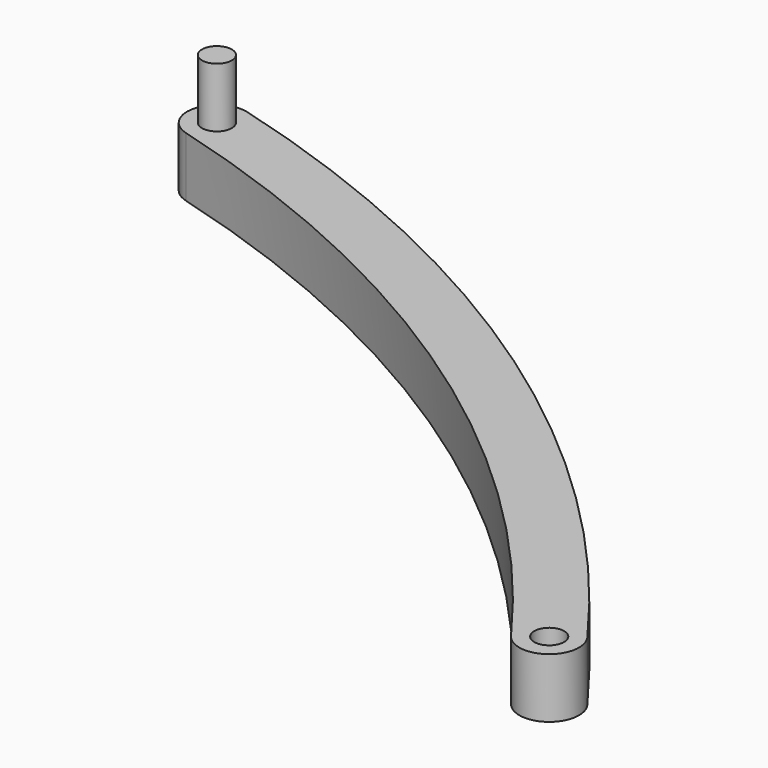
from build123d import *

# Parameters (mm, degrees)
F0_R     = 0.5
F1_DEPTH = 2
F2_R     = 0.5
F3_DEPTH = 2


with BuildPart() as f1:
    # F0 (on Top) → F1 (new body)
    with BuildSketch(Plane.XY):
        with BuildLine():
            ThreePointArc((-10.265737, 16.356462), (3.403385, 9.964178), (14.190785, -0.587513))
            ThreePointArc((14.190785, -0.587513), (15.587513, -0.809215), (15.809215, 0.587513))
            ThreePointArc((15.809215, 0.587513), (4.542375, 11.608168), (-9.734263, 18.284554))
            ThreePointArc((-9.734263, 18.284554), (-10.964046, 17.586245), (-10.265737, 16.356462))
        make_face()
        with Locations((15, 0)):
            Circle(F0_R, mode=Mode.SUBTRACT)
    extrude(amount=F1_DEPTH)

    # F2 (on face) → F3 (join)
    with BuildSketch(Plane.XY.offset(2)):
        with Locations((-10, 17.320508)):
            Circle(F2_R)
    extrude(amount=F3_DEPTH)


solid = f1.part
